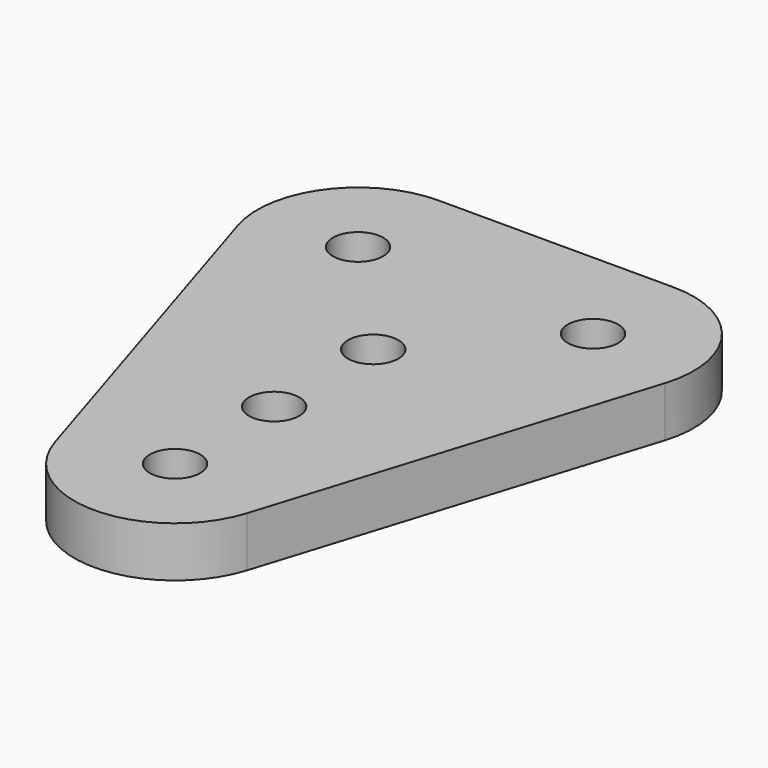
from build123d import *

# Parameters (mm, degrees)
F0_R     = 1.5
F1_DEPTH = 3


with BuildPart() as f1:
    # F0 (on Top) → F1 (new body)
    with BuildSketch(Plane.XY):
        with BuildLine():
            Line((14, 6), (0, 6))
            ThreePointArc((0, 6), (-4.834596, 3.553404), (-5.726424, -1.791107))
            Line((-5.726424, -1.791107), (1.273576, -24.171107))
            ThreePointArc((1.273576, -24.171107), (7, -28.38), (12.726424, -24.171107))
            Line((12.726424, -24.171107), (19.726424, -1.791107))
            ThreePointArc((19.726424, -1.791107), (18.834596, 3.553404), (14, 6))
        make_face()
        with Locations((7, -22.38)):
            Circle(F0_R, mode=Mode.SUBTRACT)
        with Locations((7, -15)):
            Circle(F0_R, mode=Mode.SUBTRACT)
        with Locations((7, -7.62)):
            Circle(F0_R, mode=Mode.SUBTRACT)
        Circle(F0_R, mode=Mode.SUBTRACT)
        with Locations((14, 0)):
            Circle(F0_R, mode=Mode.SUBTRACT)
    extrude(amount=F1_DEPTH)


solid = f1.part
